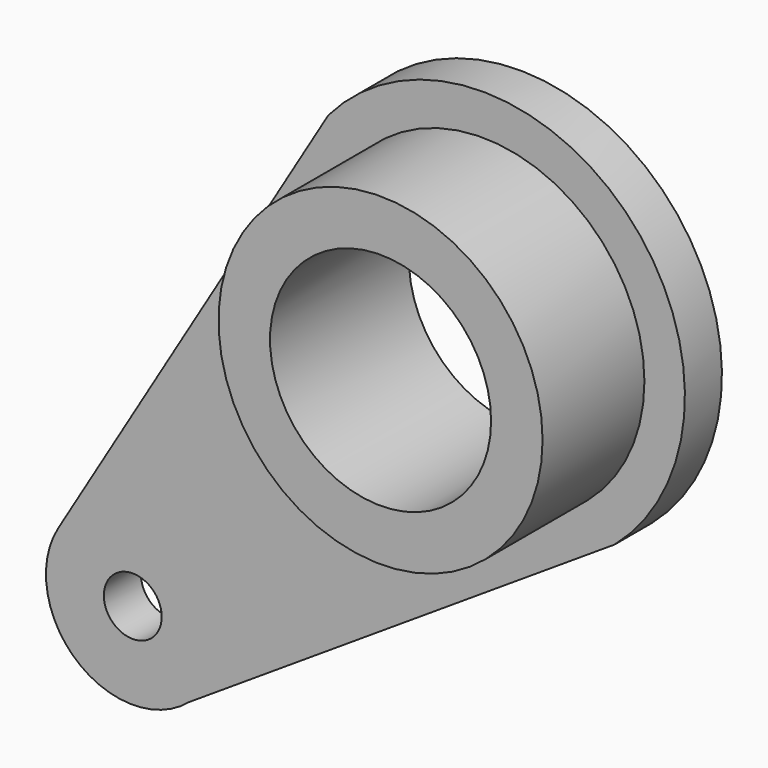
from build123d import *

# Parameters (mm, degrees)
F0_R     = 14
F0_R_2   = 9.55
F1_DEPTH = 15
F0_R_3   = 2.5
F2_DEPTH = 4


with BuildPart() as f1:
    # F0 (on Front) → F1 (new body)
    with BuildSketch(Plane.XZ):
        Circle(F0_R)
        Circle(F0_R_2, mode=Mode.SUBTRACT)
    extrude(amount=F1_DEPTH)

    # F0 (on Front) → F2 (join)
    with BuildSketch(Plane.XZ):
        with BuildLine():
            ThreePointArc((11.425317, -13.255645), (12.341197, 12.407451), (-13.316628, 11.354181))
            Line((-13.316628, 11.354181), (-36.645094, -27.632273))
            ThreePointArc((-36.645094, -27.632273), (-35.06435, -37.199789), (-25.367135, -37.210734))
            Line((-25.367135, -37.210734), (11.425317, -13.255645))
        make_face()
        with Locations((-30.209284, -31.483292)):
            Circle(F0_R_3, mode=Mode.SUBTRACT)
        Circle(F0_R, mode=Mode.SUBTRACT)
    extrude(amount=F2_DEPTH)


solid = f1.part
